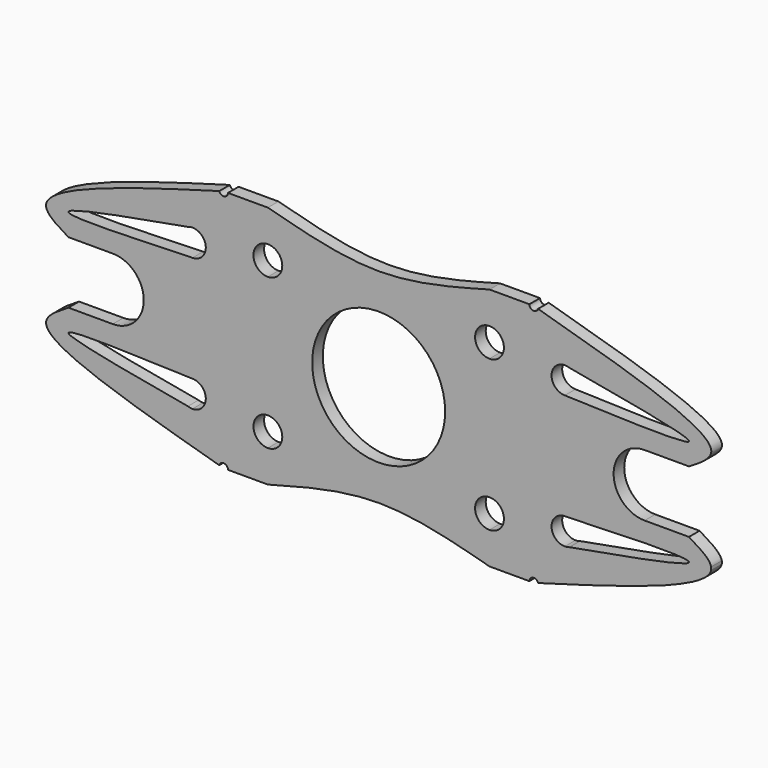
from build123d import *

# Parameters (mm, degrees)
F0_R     = 15
F1_DEPTH = 3
F2_DEPTH = 3
F3_DEPTH = 3


with BuildPart() as f1:
    # F0 (on Front) → F1 (new body)
    with BuildSketch(Plane.XZ):
        with BuildLine():
            ThreePointArc((-34, 27.5), (-34.2928932188, 26.7928932188), (-35, 26.5))
            Line((-35, 26.5), (-35, -26.5))
            ThreePointArc((-35, -26.5), (-34.2928932188, -26.7928932188), (-34, -27.5))
            Line((-34, -27.5), (-25, -27.5))
            add(Edge.make_bspline(
                [(-25, -27.5), (-16.6666666667, -25.25), (0, -20.75), (16.6666666667, -25.25), (25, -27.5)],
                knots=[0, 0, 0, 0, 0.5, 1, 1, 1, 1], degree=3))
            Line((25, -27.5), (34, -27.5))
            ThreePointArc((34, -27.5), (34.2928932188, -26.7928932188), (35, -26.5))
            Line((35, -26.5), (35, 26.5))
            ThreePointArc((35, 26.5), (34.2928932188, 26.7928932188), (34, 27.5))
            Line((34, 27.5), (25, 27.5))
            add(Edge.make_bspline(
                [(-25, 27.5), (-16.6666666667, 25.25), (0, 20.75), (16.6666666667, 25.25), (25, 27.5)],
                knots=[0, 0, 0, 0, 0.5, 1, 1, 1, 1], degree=3))
            Line((-25, 27.5), (-34, 27.5))
        make_face()
        with BuildLine():
            ThreePointArc((-21.75, -17), (-22.7019029611, -19.2980970389), (-25, -20.25))
            ThreePointArc((-25, -20.25), (-28.25, -17), (-25, -13.75))
            ThreePointArc((-25, -13.75), (-22.7019029611, -14.7019029611), (-21.75, -17))
        make_face(mode=Mode.SUBTRACT)
        with BuildLine():
            ThreePointArc((25, -13.75), (27.2980970389, -14.7019029611), (28.25, -17))
            ThreePointArc((28.25, -17), (27.2980970389, -19.2980970389), (25, -20.25))
            ThreePointArc((25, -20.25), (21.75, -17), (25, -13.75))
        make_face(mode=Mode.SUBTRACT)
        with BuildLine():
            ThreePointArc((-25, 13.75), (-27.2980970389, 19.2980970389), (-21.75, 17))
            ThreePointArc((-21.75, 17), (-22.7019029611, 14.7019029611), (-25, 13.75))
        make_face(mode=Mode.SUBTRACT)
        Circle(F0_R, mode=Mode.SUBTRACT)
        with BuildLine():
            ThreePointArc((25, 13.75), (21.75, 17), (25, 20.25))
            ThreePointArc((25, 20.25), (27.2980970389, 19.2980970389), (28.25, 17))
            ThreePointArc((28.25, 17), (27.2980970389, 14.7019029611), (25, 13.75))
        make_face(mode=Mode.SUBTRACT)
    extrude(amount=F1_DEPTH)

    # F0 (on Front) → F2 (join)
    with BuildSketch(Plane.XZ):
        with BuildLine():
            Line((-35, -26.5), (-35, 26.5))
            ThreePointArc((-35, 26.5), (-35.6028912237, 26.7021766033), (-35.9620014479, 27.2269556553))
            add(Edge.make_bspline(
                [(-70, 7), (-72.688876213, 8.6044405487), (-81.8919167368, 14.0958541424), (-55.1711599351, 21.7740976852), (-35.9620014479, 27.2269556553)],
                knots=[0, 0, 0, 0, 0.2887611513, 0.9883238821, 0.9883238821, 0.9883238821, 0.9883238821], degree=3))
            Line((-70, 7), (-60, 7))
            ThreePointArc((-60, 7), (-53, 0), (-60, -7))
            Line((-60, -7), (-70, -7))
            add(Edge.make_bspline(
                [(-70, -7), (-72.688876213, -8.6044405487), (-81.8919167368, -14.0958541424), (-55.1711599351, -21.7740976852), (-35.9620014479, -27.2269556553)],
                knots=[0, 0, 0, 0, 0.2887611513, 0.9883238821, 0.9883238821, 0.9883238821, 0.9883238821], degree=3))
            ThreePointArc((-35.9620014479, -27.2269556553), (-35.6028912237, -26.7021766033), (-35, -26.5))
        make_face()
        with BuildLine():
            add(Edge.make_bspline(
                [(-42, -12), (-55.9479149703, -11.5083551498), (-83.6545328023, -10.5317349163), (-56.7348192901, -15.3750907079), (-43.0358354206, -17.8155008402)],
                knots=[0, 0, 0, 0, 0.497194072, 0.9876433983, 0.9876433983, 0.9876433983, 0.9876433983], degree=3))
            ThreePointArc((-42, -12), (-39.8786796564, -12.8786796564), (-39, -15))
            ThreePointArc((-39, -15), (-39.8786796564, -17.1213203436), (-42, -18))
            ThreePointArc((-42, -18), (-42.5260691396, -17.9535150686), (-43.0358354206, -17.8155008402))
        make_face(mode=Mode.SUBTRACT)
        with BuildLine():
            ThreePointArc((-39, 15), (-39.8786796564, 12.8786796564), (-42, 12))
            add(Edge.make_bspline(
                [(-42, 12), (-55.9479149703, 11.5083551498), (-83.6545328023, 10.5317349163), (-56.7348192901, 15.3750907079), (-43.0358354206, 17.8155008402)],
                knots=[0, 0, 0, 0, 0.497194072, 0.9876433983, 0.9876433983, 0.9876433983, 0.9876433983], degree=3))
            ThreePointArc((-43.0358354206, 17.8155008402), (-42.5260691396, 17.9535150686), (-42, 18))
            ThreePointArc((-42, 18), (-39.8786796564, 17.1213203436), (-39, 15))
        make_face(mode=Mode.SUBTRACT)
    extrude(amount=F2_DEPTH)

    # F0 (on Front) → F3 (join)
    with BuildSketch(Plane.XZ):
        with BuildLine():
            ThreePointArc((35.9620014479, 27.2269556553), (35.6028912237, 26.7021766033), (35, 26.5))
            Line((35, 26.5), (35, -26.5))
            ThreePointArc((35, -26.5), (35.6028912237, -26.7021766033), (35.9620014479, -27.2269556553))
            add(Edge.make_bspline(
                [(75, -12), (74.084843936, -16.3392264677), (55.1711599351, -21.7740976852), (35.9620014479, -27.2269556553)],
                knots=[0.2887611513, 0.2887611513, 0.2887611513, 0.2887611513, 0.9883238821, 0.9883238821, 0.9883238821, 0.9883238821], degree=3))
            Line((75, -12), (75, -11.3173106911))
            add(Edge.make_bspline(
                [(70, -7), (72.3428093254, -8.3979439668), (74.6856186508, -9.7958879337), (75, -11.3173106911)],
                knots=[0, 0, 0, 0, 0.2515966763, 0.2515966763, 0.2515966763, 0.2515966763], degree=3))
            Line((70, -7), (60, -7))
            ThreePointArc((60, -7), (53, 0), (60, 7))
            Line((60, 7), (70, 7))
            add(Edge.make_bspline(
                [(35.9620014479, 27.2269556553), (55.1711599351, 21.7740976852), (81.8919167368, 14.0958541424), (72.688876213, 8.6044405487), (70, 7)],
                knots=[0.0116761179, 0.0116761179, 0.0116761179, 0.0116761179, 0.7112388487, 1, 1, 1, 1], degree=3))
        make_face()
        with BuildLine():
            ThreePointArc((42, -18), (39, -15), (42, -12))
            add(Edge.make_bspline(
                [(42, -12), (55.9479149703, -11.5083551498), (83.6545328023, -10.5317349163), (56.7348192901, -15.3750907079), (43.0358354206, -17.8155008402)],
                knots=[0, 0, 0, 0, 0.497194072, 0.9876433983, 0.9876433983, 0.9876433983, 0.9876433983], degree=3))
            ThreePointArc((43.0358354206, -17.8155008402), (42.5260691396, -17.9535150686), (42, -18))
        make_face(mode=Mode.SUBTRACT)
        with BuildLine():
            add(Edge.make_bspline(
                [(43.0358354206, 17.8155008402), (56.7348192901, 15.3750907079), (83.6545328023, 10.5317349163), (55.9479149703, 11.5083551498), (42, 12)],
                knots=[0.0123566017, 0.0123566017, 0.0123566017, 0.0123566017, 0.502805928, 1, 1, 1, 1], degree=3))
            ThreePointArc((42, 12), (39, 15), (42, 18))
            ThreePointArc((42, 18), (42.5260691396, 17.9535150686), (43.0358354206, 17.8155008402))
        make_face(mode=Mode.SUBTRACT)
    extrude(amount=F3_DEPTH)


solid = f1.part
